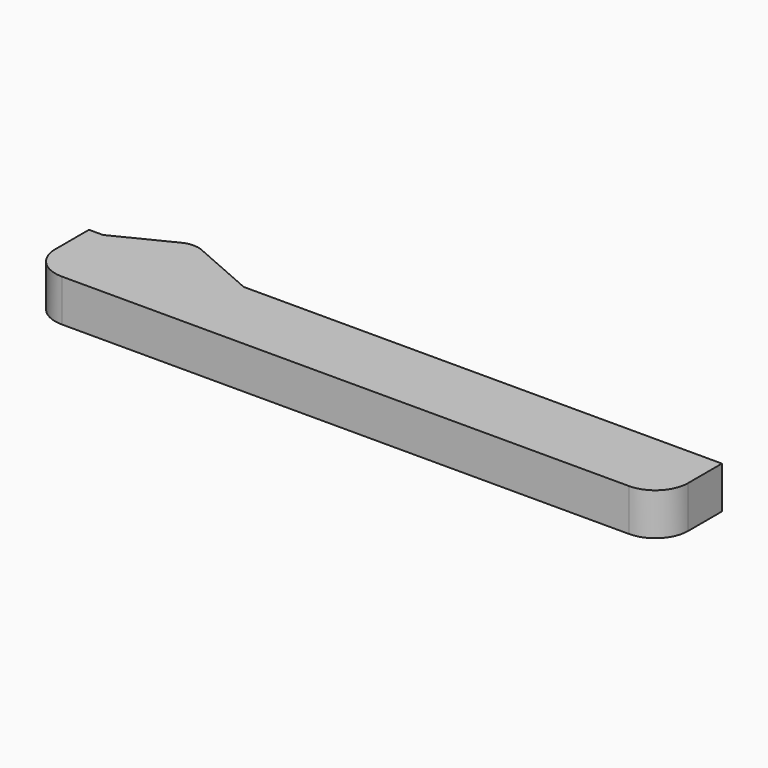
from build123d import *

# Parameters (mm, degrees)
F1_DEPTH  = 9
F2_W      = 130.0831899747
F2_H      = 3
F3_DEPTH  = 13
F4_DEPTH  = 25
F5_W      = 24
F5_H      = 2
F6_DEPTH  = 3
F8_R      = 3
F9_DEPTH  = 4
F7_W      = 24
F7_H      = 1
F7_W_2    = 93.5030970573
F10_DEPTH = 10
F11_DEPTH = 25
F12_R     = 5
F13_R     = 7


with BuildPart() as f1:
    # F0 (on Top) → F1 (new body)
    with BuildSketch(Plane.XY):
        Polygon((-64.5, 4.5), (-67.5, 4.5), (-67.5, -11.5), (67.5, -11.5), (67.5, 4.5), (-34.5, 4.5), align=None)
        Polygon((-34.5, 4.5), (-50.5, 11.5), (-64.5, 4.5), align=None)
    extrude(amount=F1_DEPTH)

    # F2 (on face) → F3 (cut)
    with BuildSketch(Plane(origin=(0, 4.5, 0), x_dir=(-1, 0, 0), z_dir=(0, 1, 0))):
        with Locations((0.6519891322, 4.4357408187)):
            Rectangle(F2_W, F2_H)
    extrude(amount=-F3_DEPTH, mode=Mode.SUBTRACT)

    # F4 (cut): a face of the model
    f4_faces = [f1.faces().sort_by_distance(p)[0] for p in [
        (-0.6519891322, -8.5, 4.4357408187),
    ]]
    extrude(f4_faces, amount=F4_DEPTH, mode=Mode.SUBTRACT)

    # F5 (on face) → F6 (join)
    with BuildSketch(Plane(origin=(0, 0, 5.9357408187), x_dir=(1, 0, 0), z_dir=(0, 0, -1))):
        with Locations((40.5, -3.5)):
            Rectangle(F5_W, F5_H)
    extrude(amount=F6_DEPTH)

    # F8 (on face) → F9 (join)
    with BuildSketch(Plane(origin=(0, 0, 5.9357408187), x_dir=(1, 0, 0), z_dir=(0, 0, -1))):
        with Locations((-50.5, -5.5)):
            Circle(F8_R)
    extrude(amount=F9_DEPTH)

    # F7 (on face) → F10 (cut)
    with BuildSketch(Plane(origin=(0, 4.5, 0), x_dir=(-1, 0, 0), z_dir=(0, 1, 0))):
        with Locations((-40.5, 4.4357408187)):
            Rectangle(F7_W, F7_H)
        with Locations((18.2515485287, 4.4357408187)):
            Rectangle(F7_W_2, F7_H)
    extrude(amount=-F10_DEPTH, mode=Mode.SUBTRACT)

    # F7 (on face) → F11 (cut)
    with BuildSketch(Plane(origin=(0, 4.5, 0), x_dir=(-1, 0, 0), z_dir=(0, 1, 0))):
        with Locations((18.2515485287, 4.4357408187)):
            Rectangle(F7_W_2, F7_H)
    extrude(amount=F11_DEPTH, mode=Mode.SUBTRACT)

    # F12
    f12_edges = [f1.edges().sort_by_distance(p)[0] for p in [
        (-50.5, 11.5, 1.46787),
        (-50.5, 11.5, 7.46787),
    ]]
    fillet(f12_edges, radius=F12_R)

    # F13
    f13_edges = [f1.edges().sort_by_distance(p)[0] for p in [
        (-67.5, -11.5, 4.5),
        (67.5, -11.5, 4.5),
    ]]
    fillet(f13_edges, radius=F13_R)


solid = f1.part
